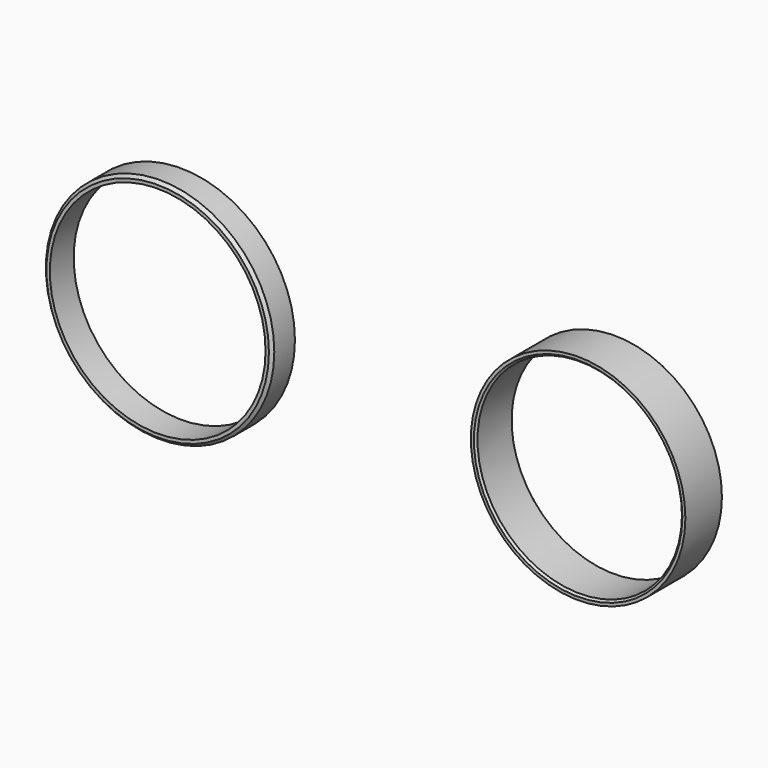
from build123d import *

# Parameters (mm, degrees)
F1_R     = 54
F1_R_2   = 51.475
F2_DEPTH = 23
F3_SIZE  = 1
F4_SIZE  = 0.5
F0_R     = 57.5
F0_R_2   = 54.3
F5_DEPTH = 15
F6_SIZE  = 1.5
F7_SIZE  = 0.5


with BuildPart() as f2:
    # F1 (on Front) → F2 (new body)
    with BuildSketch(Plane.XZ):
        with Locations((218.054354, 0)):
            Circle(F1_R)
        with Locations((218.054354, 0)):
            Circle(F1_R_2, mode=Mode.SUBTRACT)
    extrude(amount=F2_DEPTH)

    # F3
    f3_edges = [f2.edges().sort_by_distance(p)[0] for p in [
        (166.579354, -23, 0),
    ]]
    chamfer(f3_edges, length=F3_SIZE)

    # F4
    f4_edges = [f2.edges().sort_by_distance(p)[0] for p in [
        (166.579354, 0, 0),
    ]]
    chamfer(f4_edges, length=F4_SIZE)


with BuildPart() as f5:
    # F0 (on Front) → F5 (new body)
    with BuildSketch(Plane.XZ):
        Circle(F0_R)
        Circle(F0_R_2, mode=Mode.SUBTRACT)
    extrude(amount=F5_DEPTH)

    # F6
    f6_edges = [f5.edges().sort_by_distance(p)[0] for p in [
        (-57.5, -15, 0),
    ]]
    chamfer(f6_edges, length=F6_SIZE)

    # F7
    f7_edges = [f5.edges().sort_by_distance(p)[0] for p in [
        (-57.5, 0, 0),
    ]]
    chamfer(f7_edges, length=F7_SIZE)


solid = Compound([f2.part, f5.part])
